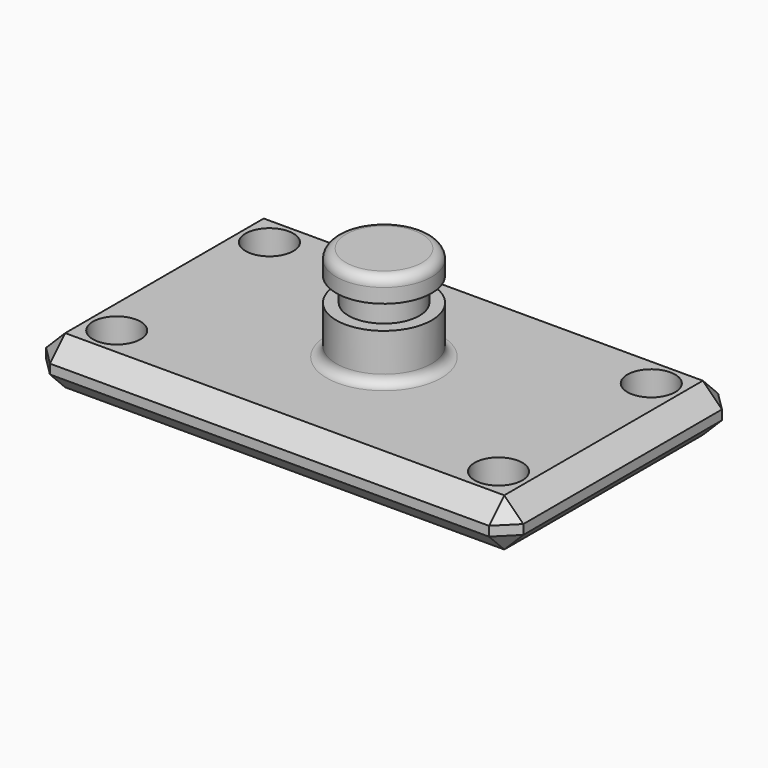
from build123d import *

# Parameters (mm, degrees)
F0_W     = 127
F0_H     = 76.2
F1_DEPTH = 12.7
F2_R     = 6.35
F3_DEPTH = 12.701
F4_W     = 12.7
F4_H     = 25.4
F6_W     = 6.35
F6_H     = 6.35
F8_R     = 2.54
F9_SIZE  = 5.08


with BuildPart() as f1:
    # F0 (on Top) → F1 (new body)
    with BuildSketch(Plane.XY):
        Rectangle(F0_W, F0_H)
    extrude(amount=F1_DEPTH)

    # F2 (on face) → F3 (cut, through all)
    with BuildSketch(Plane.XY.offset(12.7)):
        with Locations((-50.8, 25.4)):
            Circle(F2_R)
        with Locations((50.8, 25.4)):
            Circle(F2_R)
        with Locations((50.8, -25.4)):
            Circle(F2_R)
        with Locations((-50.8, -25.4)):
            Circle(F2_R)
    extrude(amount=-F3_DEPTH, mode=Mode.SUBTRACT)

    # F4 (on Front) → F5 (revolve)
    with BuildSketch(Plane.XZ):
        with Locations((6.35, 25.4)):
            Rectangle(F4_W, F4_H)
    revolve(axis=Axis((0, 0, 25.4), (0, 0, 1)))

    # F6 (on Front) → F7 (revolve, cut)
    with BuildSketch(Plane.XZ):
        with Locations((12.601576, 28.575)):
            Rectangle(F6_W, F6_H)
    revolve(axis=Axis((0, 0, 12.7), (0, 0, 1)), mode=Mode.SUBTRACT)

    # F8
    f8_edges = [f1.edges().sort_by_distance(p)[0] for p in [
        (-12.7, 0, 38.1),
        (-12.7, 0, 12.7),
    ]]
    fillet(f8_edges, radius=F8_R)

    # F9
    f9_edges = [f1.edges().sort_by_distance(p)[0] for p in [
        (63.5, 38.1, 6.35),
        (-63.5, 38.1, 6.35),
        (0, 38.1, 0),
        (0, 38.1, 12.7),
        (63.5, -38.1, 6.35),
        (63.5, 0, 0),
        (63.5, 0, 12.7),
        (-63.5, -38.1, 6.35),
        (-63.5, 0, 0),
        (-63.5, 0, 12.7),
        (0, -38.1, 0),
        (0, -38.1, 12.7),
    ]]
    chamfer(f9_edges, length=F9_SIZE)


solid = f1.part
